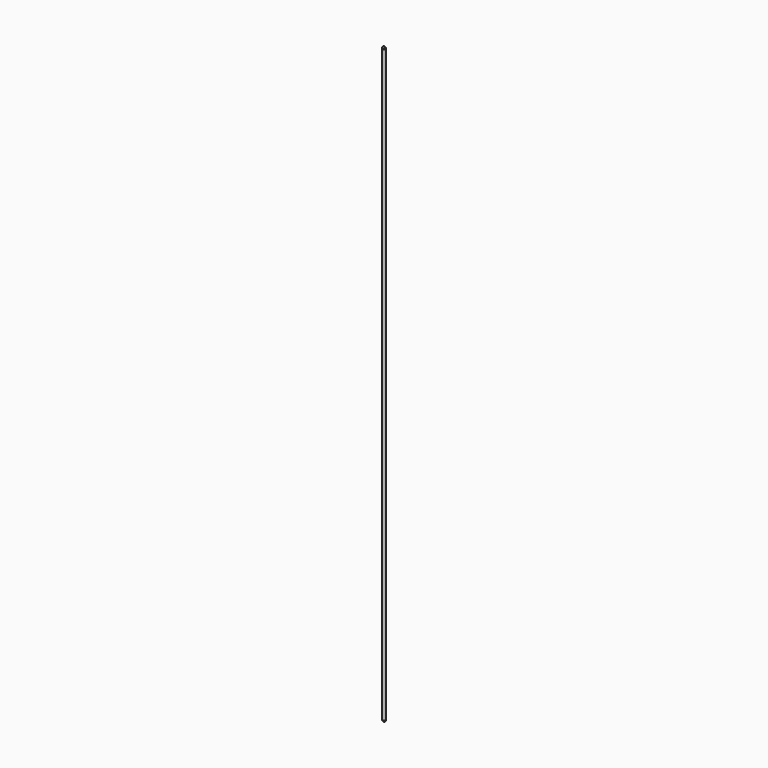
from build123d import *

# Parameters (mm, degrees)
F0_R     = 9.5
F0_R_2   = 7.9
F1_DEPTH = 1600
F2_R     = 9.5
F3_DEPTH = 1.6
F4_DEPTH = 1.6


with BuildPart() as f1:
    # F0 (on Top) → F1 (new body)
    with BuildSketch(Plane.XY):
        Circle(F0_R)
        Circle(F0_R_2, mode=Mode.SUBTRACT)
    extrude(amount=F1_DEPTH)

    # F2 (on Front) → F3 (join)
    with BuildSketch(Plane.XZ):
        Circle(F2_R)
    extrude(amount=F3_DEPTH)

    # F3_face (on face) → F4 (join)
    with BuildSketch(Plane(origin=(0, 0, -0.084371), x_dir=(1, 0, 0), z_dir=(0, 1, 0))):
        with BuildLine():
            ThreePointArc((9.5, -0.084371), (0, 9.415629), (-9.5, -0.084371))
            Line((-9.5, -0.084371), (-7.9, -0.084371))
            Line((-7.9, -0.084371), (-7.9, -5.360733))
            ThreePointArc((-7.9, -5.360733), (0, -9.584371), (7.9, -5.360733))
            Line((7.9, -5.360733), (7.9, -0.084371))
            Line((7.9, -0.084371), (9.5, -0.084371))
        make_face()
    extrude(amount=F4_DEPTH)

    # F5: F1 across face


with BuildPart() as f1_1:
    add(f1.part)
    add(f1.part.mirror(Plane.XY.offset(1600)))


solid = f1_1.part
